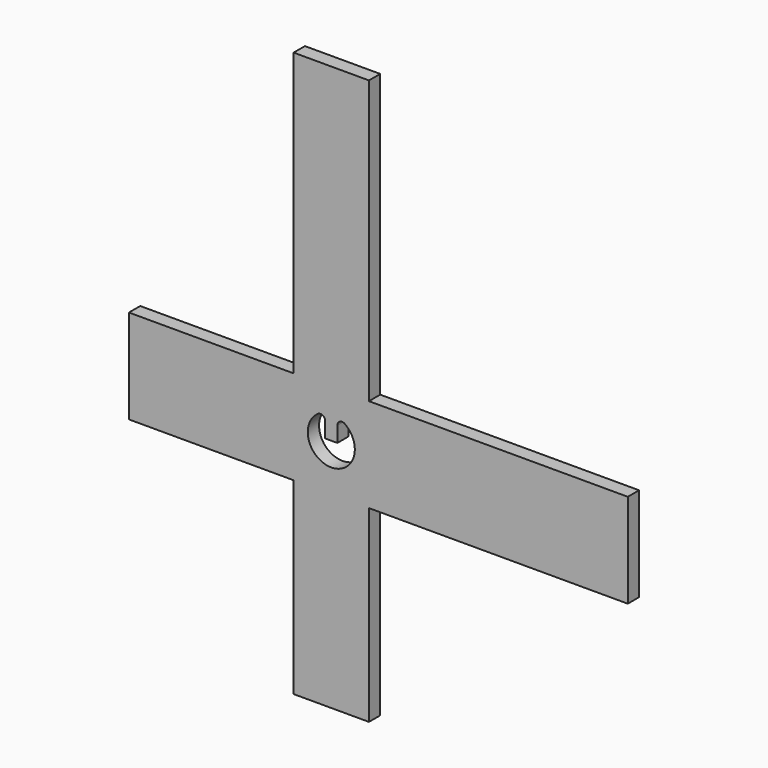
from build123d import *

# Parameters (mm, degrees)
F1_DEPTH = 3
F3_DEPTH = 25


with BuildPart() as f1:
    # F0 (on Front) → F1 (new body)
    with BuildSketch(Plane.XZ):
        Polygon((-10.922095, -4.720051), (-10.922095, -44.720051), (5.077905, -44.720051), (5.077905, -4.720051), (60.077905, -4.720051), (60.077905, 15.279949), (5.077905, 15.279949), (5.077905, 75.279949), (-10.922095, 75.279949), (-10.922095, 15.279949), (-45.922095, 15.279949), (-45.922095, -4.720051), align=None)
    extrude(amount=F1_DEPTH)

    # F2 (on face) → F3 (cut)
    with BuildSketch(Plane.XZ.offset(3)):
        with BuildLine():
            ThreePointArc((-4.208827, 8.561848), (-4.746054, 9.448325), (-5.780509, 9.382322))
            ThreePointArc((-5.780509, 9.382322), (-2.922095, 0.279949), (-0.06368, 9.382322))
            ThreePointArc((-0.06368, 9.382322), (-1.098136, 9.448325), (-1.635363, 8.561848))
            Line((-1.635363, 8.561848), (-1.635363, 5.279949))
            Line((-1.635363, 5.279949), (-4.208827, 5.279949))
            Line((-4.208827, 5.279949), (-4.208827, 8.561848))
        make_face()
    extrude(amount=-F3_DEPTH, mode=Mode.SUBTRACT)


solid = f1.part
